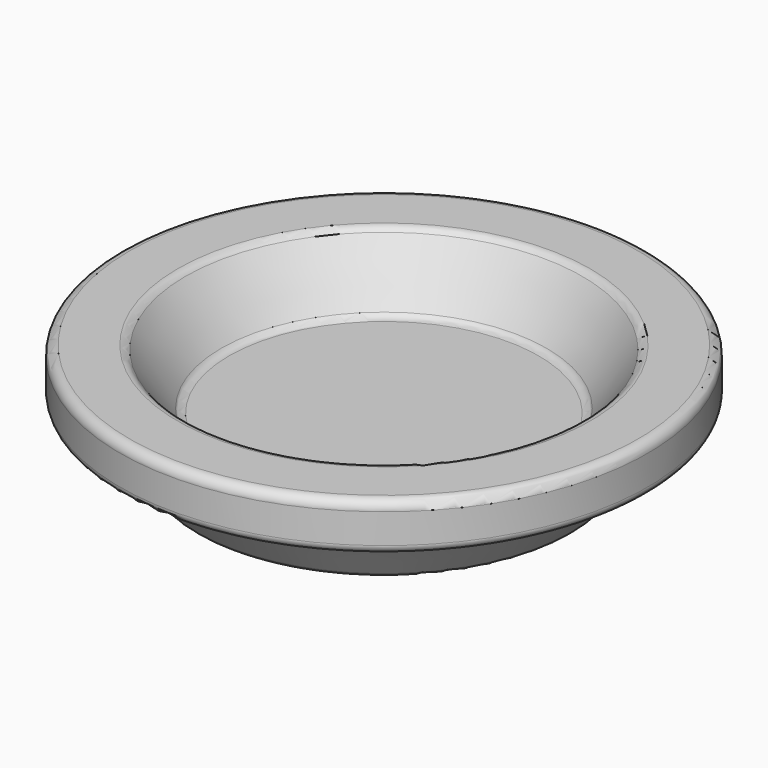
from build123d import *


with BuildPart() as f1:
    # F0 (on Front) → F1 (revolve)
    with BuildSketch(Plane.XZ):
        with BuildLine():
            Line((-23.961046, 0), (0, 0))
            Line((0, 0), (0, 6.35))
            Line((0, 6.35), (-20.629021, 6.35))
            ThreePointArc((-20.629021, 6.35), (-21.219121, 6.495419), (-21.674084, 6.898374))
            Line((-21.674084, 6.898374), (-26.431746, 13.788444))
            ThreePointArc((-26.431746, 13.788444), (-26.886709, 14.191399), (-27.476809, 14.336818))
            Line((-27.476809, 14.336818), (-33.886041, 14.336818))
            ThreePointArc((-33.886041, 14.336818), (-34.784067, 13.964843), (-35.156041, 13.066818))
            Line((-35.156041, 13.066818), (-35.156041, 9.097631))
            ThreePointArc((-35.156041, 9.097631), (-34.830692, 8.312167), (-34.045228, 7.986818))
            Line((-34.045228, 7.986818), (-30.808833, 7.986818))
            ThreePointArc((-30.808833, 7.986818), (-30.218734, 7.841399), (-29.763771, 7.438444))
            Line((-29.763771, 7.438444), (-25.006108, 0.548374))
            ThreePointArc((-25.006108, 0.548374), (-24.551145, 0.145419), (-23.961046, 0))
        make_face()
    revolve(axis=Axis((0, 0, 3.175), (0, 0, 1)))


solid = f1.part
